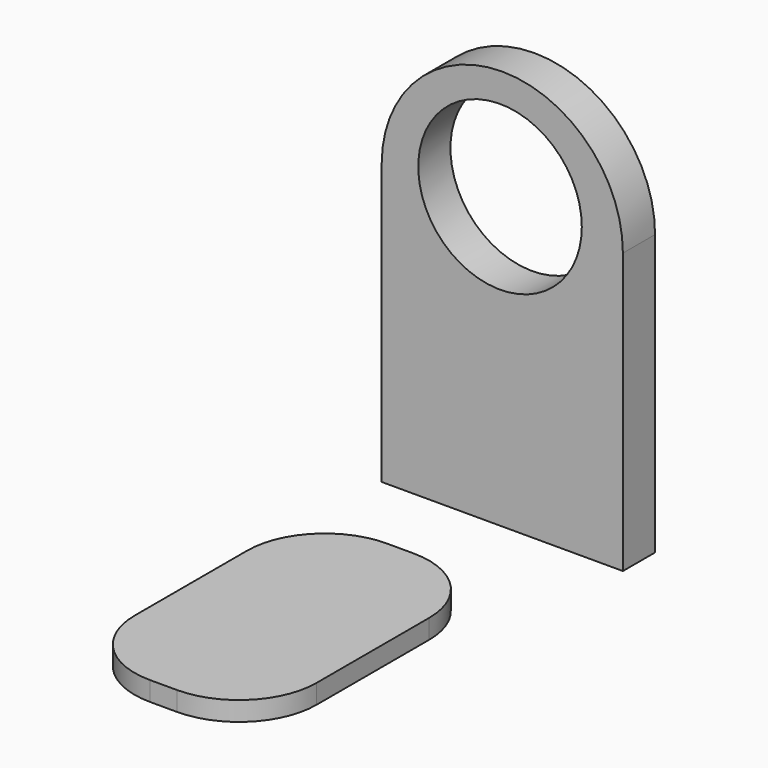
from build123d import *

# Parameters (mm, degrees)
F1_DEPTH = 2.59232
F2_R     = 5.269991
F3_DEPTH = 25
F4_W     = 11.731844
F4_H     = 19.064246
F5_DEPTH = 1.24302
F6_R     = 5


with BuildPart() as f1:
    # F0 (on Front) → F1 (new body)
    with BuildSketch(Plane.XZ):
        with BuildLine():
            Line((-45.167599, 18.03771), (-45.167599, 0))
            Line((-45.167599, 0), (-29.622907, 0))
            Line((-29.622907, 0), (-29.622907, 18.03771))
            ThreePointArc((-29.622907, 18.03771), (-37.395253, 25.810056), (-45.167599, 18.03771))
        make_face()
    extrude(amount=F1_DEPTH)

    # F2 (on Front) → F3 (cut)
    with BuildSketch(Plane.XZ):
        with Locations((-37.540361, 18.659202)):
            Circle(F2_R)
    extrude(amount=F3_DEPTH, mode=Mode.SUBTRACT)


with BuildPart() as f5:
    # F4 (on Top) → F5 (new body)
    with BuildSketch(Plane.XY):
        with Locations((-38.421789, -19.064247)):
            Rectangle(F4_W, F4_H)
    extrude(amount=F5_DEPTH)

    # F6
    f6_edges = [f5.edges().sort_by_distance(p)[0] for p in [
        (-32.555867, -9.532124, 0.62151),
        (-44.287711, -9.532124, 0.62151),
        (-32.555867, -28.59637, 0.62151),
        (-44.287711, -28.59637, 0.62151),
    ]]
    fillet(f6_edges, radius=F6_R)


solid = Compound([f1.part, f5.part])
